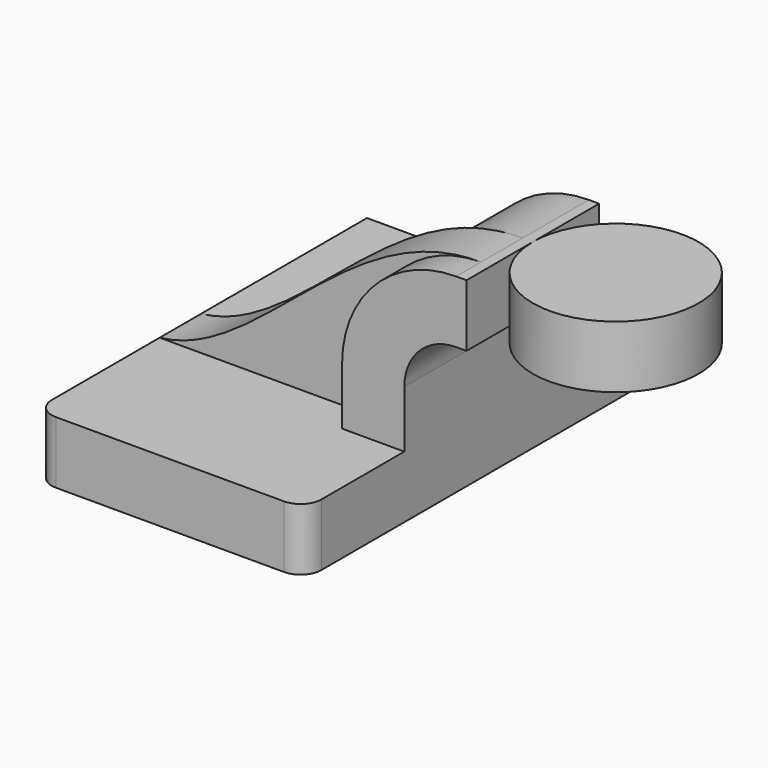
from build123d import *

# Parameters (mm, degrees)
F1_DEPTH = 63.5
F2_DEPTH = 25.4
F3_DEPTH = 15.875
F0_W     = 25.4
F0_H     = 19.05
F5_R     = 6.35


with BuildPart() as f1:
    # F0 (on Front) → F1 (new body, symmetric)
    with BuildSketch(Plane.XZ):
        Polygon((-41.275, -9.525), (41.275, -9.525), (41.275, 9.525), (22.225, 9.525), (-41.275, 9.525), align=None)
    extrude(amount=F1_DEPTH, both=True)

    # F0 (on Front) → F2 (join, symmetric)
    with BuildSketch(Plane.XZ):
        with BuildLine():
            Line((22.225, 9.525), (41.275, 9.525))
            Line((41.275, 9.525), (41.275, 27.0002))
            ThreePointArc((41.275, 27.0002), (45.9246798487, 38.2255201513), (57.15, 42.8752))
            Line((57.15, 42.8752), (60.325, 42.8752))
            Line((60.325, 42.8752), (60.325, 61.9252))
            Line((60.325, 61.9252), (57.15, 61.9252))
            ThreePointArc((57.15, 61.9252), (32.4542956671, 51.6959043329), (22.225, 27.0002))
            Line((22.225, 27.0002), (22.225, 9.525))
        make_face()
    extrude(amount=F2_DEPTH, both=True)

    # F0 (on Front) → F3 (join)
    with BuildSketch(Plane.XZ):
        with BuildLine():
            add(Edge.make_bspline(
                [(-41.275, 9.525), (-10.3348297998, 12.8418905661), (16.3892488927, 62.3086951673), (57.15, 61.9252)],
                knots=[0, 0, 0, 0, 111.5045361635, 111.5045361635, 111.5045361635, 111.5045361635], degree=3))
            Line((-41.275, 9.525), (22.225, 9.525))
            Line((22.225, 9.525), (22.225, 27.0002))
            ThreePointArc((22.225, 27.0002), (32.4542956671, 51.6959043329), (57.15, 61.9252))
        make_face()
    extrude(amount=F3_DEPTH)

    # F0 (on Front) → F4 (revolve)
    with BuildSketch(Plane.XZ):
        with Locations((73.025, 52.4002)):
            Rectangle(F0_W, F0_H)
    revolve(axis=Axis((85.725, 0, 52.3875), (0, 0, 1)))

    # F5
    f5_edges = [f1.edges().sort_by_distance(p)[0] for p in [
        (-41.275, -63.5, 0),
        (41.275, -63.5, 0),
    ]]
    fillet(f5_edges, radius=F5_R)


solid = f1.part
